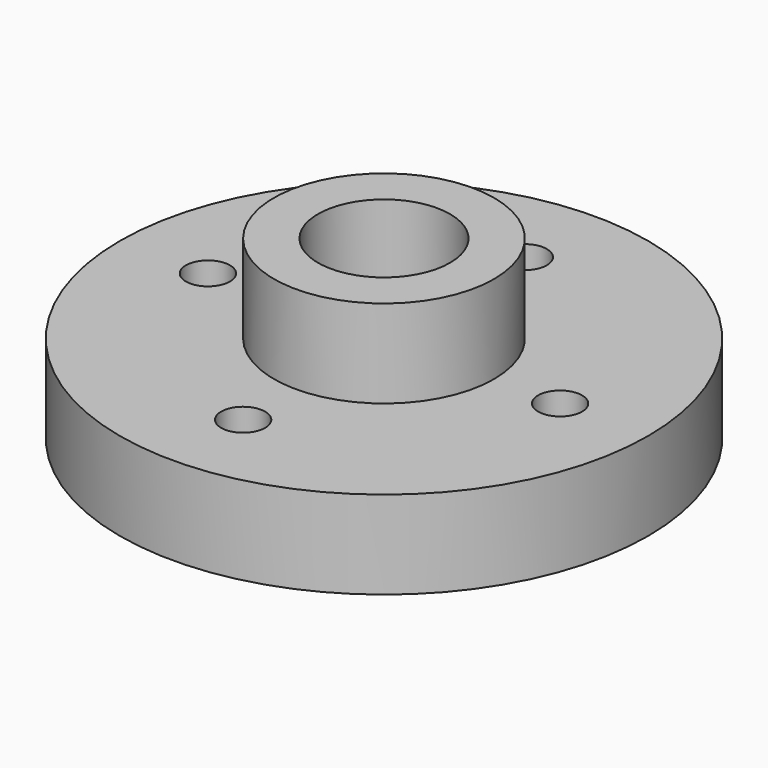
from build123d import *

# Parameters (mm, degrees)
F0_R     = 38.1
F0_R_2   = 15.875
F1_DEPTH = 12.7
F2_DEPTH = 25.4
F3_R     = 9.525
F4_DEPTH = 25.4
F6_D     = 6.35


with BuildPart() as f1:
    # F0 (on Top) → F1 (new body)
    with BuildSketch(Plane.XY):
        Circle(F0_R)
        Circle(F0_R_2, mode=Mode.SUBTRACT)
        Circle(F0_R_2)
    extrude(amount=F1_DEPTH)

    # F0 (on Top) → F2 (join)
    with BuildSketch(Plane.XY):
        Circle(F0_R_2)
    extrude(amount=F2_DEPTH)

    # F3 (on face) → F4 (cut, through all)
    with BuildSketch(Plane.XY.offset(25.4)):
        Circle(F3_R)
    extrude(amount=-F4_DEPTH, mode=Mode.SUBTRACT)

    # F6 (through all)
    with Locations(Plane.XY.offset(12.7)):
        with Locations((0, 25.4), (25.4, 0), (0, -25.4), (-25.4, 0)):
            Hole(F6_D / 2)


solid = f1.part
